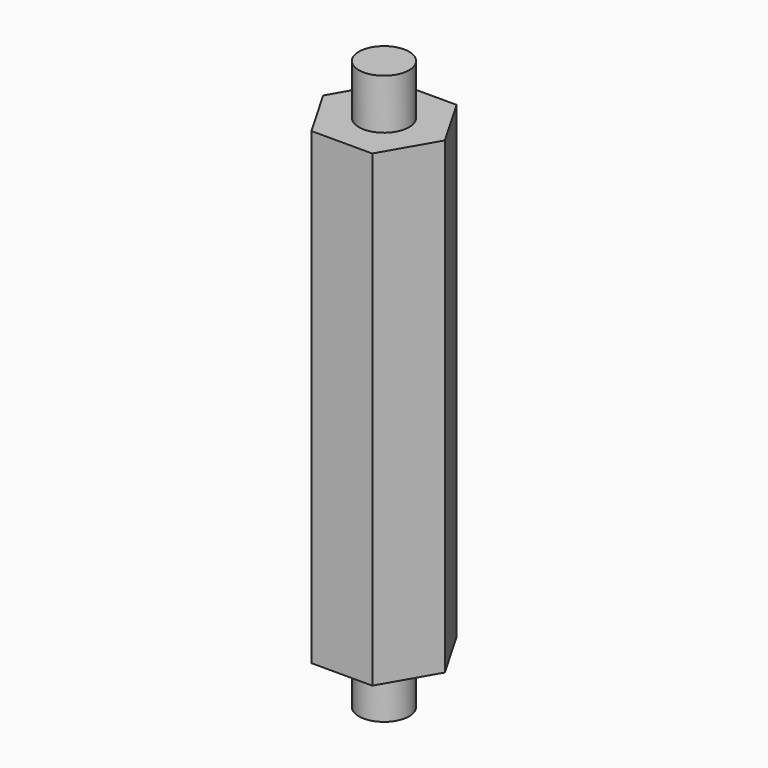
from build123d import *

# Parameters (mm, degrees)
F0_R     = 1.5
F1_DEPTH = 3
F2_R     = 1.5
F3_DEPTH = 28
F4_R     = 1.5
F5_DEPTH = 3


with BuildPart() as f1:
    # F0 (on Top) → F1 (new body)
    with BuildSketch(Plane.XY):
        Circle(F0_R)
    extrude(amount=F1_DEPTH)

    # F2 (on face) → F3 (join)
    with BuildSketch(Plane.XY.offset(3)):
        Polygon((1.8186533479, 3.15), (-1.8186533479, 3.15), (-3.6373066959, 0), (-1.8186533479, -3.15), (1.8186533479, -3.15), (3.6373066959, 0), align=None)
        Circle(F2_R, mode=Mode.SUBTRACT)
        Circle(F2_R)
    extrude(amount=F3_DEPTH)

    # F4 (on face) → F5 (join)
    with BuildSketch(Plane.XY.offset(31)):
        Circle(F4_R)
    extrude(amount=F5_DEPTH)


solid = f1.part
